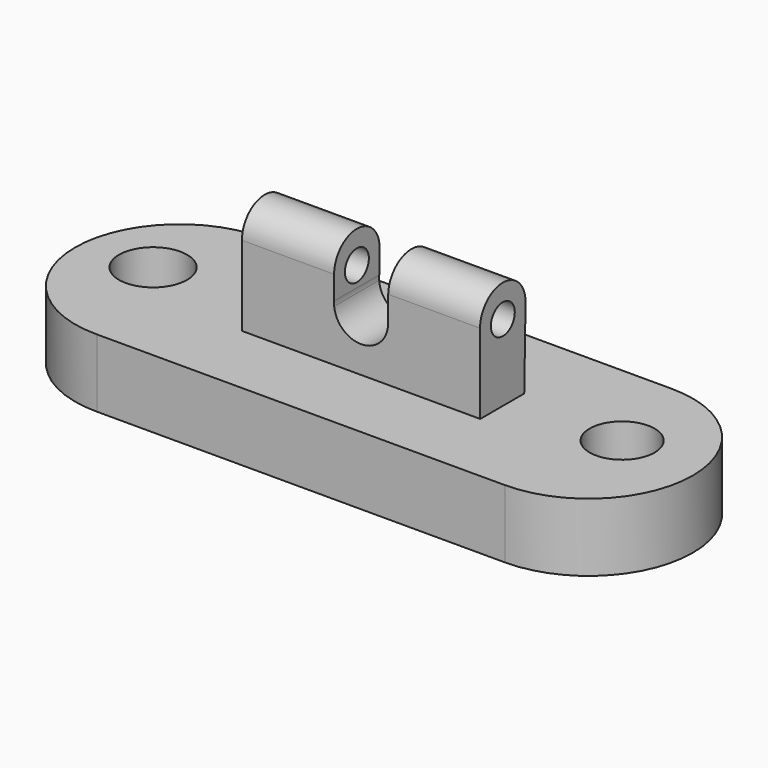
from build123d import *

# Parameters (mm, degrees)
F1_DEPTH      = 25.4
F2_R          = 12.7177056433
F2_R_2        = 12.1311661923
F3_DEPTH      = 25.401
F5_DEPTH      = 44.45
F5_DEPTH_BACK = 44.45
F7_DEPTH      = 25.4
F7_DEPTH_BACK = 25.4
F8_R          = 5.5849461746
F9_DEPTH      = 115.4465217498
F9_DEPTH_BACK = 68.58


with BuildPart() as f1:
    # F0 (on Top) → F1 (new body)
    with BuildSketch(Plane.XY):
        with BuildLine():
            Line((76.2133896351, 39.2316170037), (-76.4946267009, 39.2316170037))
            ThreePointArc((-76.4946267009, 39.2316170037), (-115.4452679188, 0.1401025055), (-76.2133896351, -38.6691577733))
            Line((-76.2133896351, -38.6691577733), (76.2133896351, -38.6691577733))
            ThreePointArc((76.2133896351, -38.6691577733), (115.1637770236, 0.2812296152), (76.2133896351, 39.2316170037))
        make_face()
    extrude(amount=F1_DEPTH)

    # F2 (on Top) → F3 (cut, through all)
    with BuildSketch(Plane.XY):
        with Locations((-89.8385569453, 4.6402988955)):
            Circle(F2_R)
        with Locations((85.2755606174, 4.6516866423)):
            Circle(F2_R_2)
    extrude(amount=F3_DEPTH, mode=Mode.SUBTRACT)

    # F4 (on Right) → F5 (join, two sides)
    with BuildSketch(Plane.YZ) as f5_sk:
        with BuildLine():
            Line((10.6150543281, 54.8590188052), (10.6243238001, 55.3027279675))
            ThreePointArc((10.6243238001, 55.3027279675), (-0.0164444689, 65.9270390411), (-10.6242728941, 55.2698390691))
            ThreePointArc((-10.6242728941, 55.2698390691), (-0.2054618402, 44.6803910476), (10.6150543281, 54.8590188052))
        make_face()
        with BuildLine():
            ThreePointArc((10.6150543281, 54.8590188052), (10.6220061793, 55.0808249798), (10.6243238001, 55.3027279675))
            Line((10.6243238001, 55.3027279675), (10.6150543281, 54.8590188052))
        make_face()
        with BuildLine():
            ThreePointArc((10.6150543281, 54.8590188052), (-0.2054618402, 44.6803910476), (-10.6242728941, 55.2698390691))
            Line((-10.6242728941, 55.2698390691), (-10.4871375507, 10.9702917508))
            Line((-10.4871375507, 10.9702917508), (9.6981804819, 10.9702917508))
            Line((9.6981804819, 10.9702917508), (10.6150543281, 54.8590188052))
        make_face()
    extrude(amount=F5_DEPTH)
    extrude(f5_sk.sketch, amount=-F5_DEPTH_BACK)

    # F6 (on Front) → F7 (cut, two sides)
    with BuildSketch(Plane.XZ) as f7_sk:
        with BuildLine():
            Line((-10.0329583581, 46.5069847835), (-10.0329583581, 44.7021064626))
            ThreePointArc((-10.0329583581, 44.7021064626), (-0.3878303842, 35.5385515118), (9.9337786678, 43.9328126198))
            Line((9.9337786678, 43.9328126198), (9.9920310872, 46.8828118731))
            ThreePointArc((9.9920310872, 46.8828118731), (-0.1890244976, 55.676234637), (-10.0329583581, 46.5069847835))
        make_face()
        with BuildLine():
            ThreePointArc((-10.0329583581, 46.5069847835), (-10.0734626546, 45.6045456231), (-10.0329583581, 44.7021064626))
            Line((-10.0329583581, 44.7021064626), (-10.0329583581, 46.5069847835))
        make_face()
        with BuildLine():
            Line((9.9920310872, 46.8828118731), (9.9337786678, 43.9328126198))
            ThreePointArc((9.9337786678, 43.9328126198), (10.038480918, 44.7657663239), (10.0734626546, 45.6045456231))
            ThreePointArc((10.0734626546, 45.6045456231), (10.0530841501, 46.2449743283), (9.9920310872, 46.8828118731))
        make_face()
        with BuildLine():
            Line((-10.0329583581, 72.3900050139), (-10.0329583581, 46.5069847835))
            ThreePointArc((-10.0329583581, 46.5069847835), (-0.1890244976, 55.676234637), (9.9920310872, 46.8828118731))
            Line((9.9920310872, 46.8828118731), (10.495711118, 72.3900050139))
            Line((10.495711118, 72.3900050139), (-10.0329583581, 72.3900050139))
        make_face()
    extrude(amount=-F7_DEPTH, mode=Mode.SUBTRACT)
    extrude(f7_sk.sketch, amount=F7_DEPTH_BACK, mode=Mode.SUBTRACT)

    # F8 (on Right) → F9 (cut, two sides)
    with BuildSketch(Plane.YZ) as f9_sk:
        with Locations((0, 53.9172701538)):
            Circle(F8_R)
    extrude(amount=-F9_DEPTH, mode=Mode.SUBTRACT)
    extrude(f9_sk.sketch, amount=F9_DEPTH_BACK, mode=Mode.SUBTRACT)


solid = f1.part
